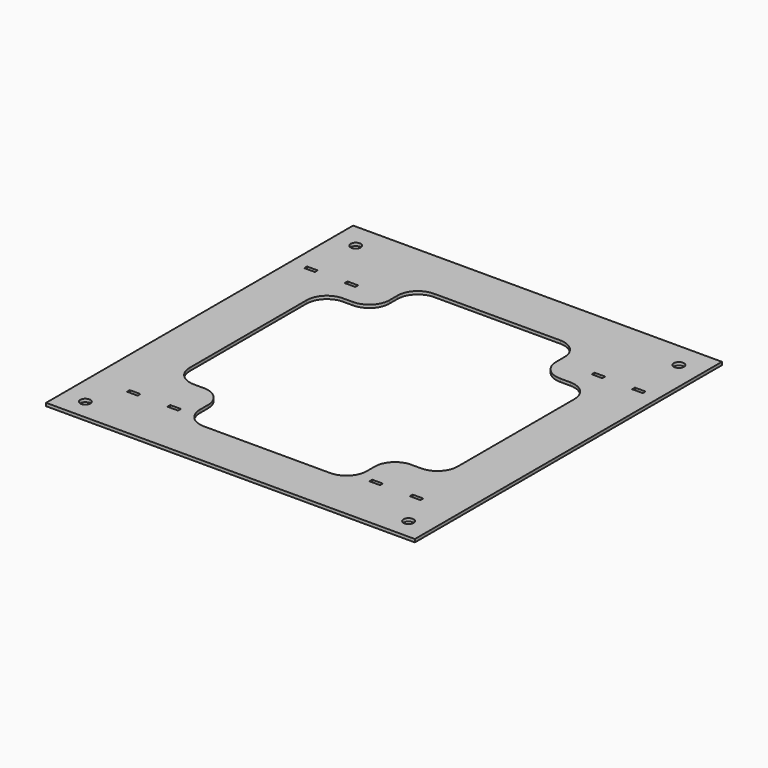
from build123d import *

# Parameters (mm, degrees)
SKETCH_W          = 365.0996
SKETCH_H          = 379.984
SKETCH_R          = 5
SKETCH_W_2        = 10.5
SKETCH_H_2        = 3.5
PAD_DEPTH         = 3
POCKET_DEPTH      = 0.001
POCKET_DEPTH_BACK = -3.001


with BuildPart() as part:
    # Sketch → Pad (new body)
    with BuildSketch(Plane.XY):
        with Locations((0, 2.2987)):
            Rectangle(SKETCH_W, SKETCH_H)
        with Locations((-159.9946, 167.2971)):
            Circle(SKETCH_R, mode=Mode.SUBTRACT)
        with Locations((159.9946, 167.2971)):
            Circle(SKETCH_R, mode=Mode.SUBTRACT)
        with Locations((159.9946, -167.2971)):
            Circle(SKETCH_R, mode=Mode.SUBTRACT)
        with Locations((-159.9946, -167.2971)):
            Circle(SKETCH_R, mode=Mode.SUBTRACT)
        with Locations((-140, -132.419)):
            Rectangle(SKETCH_W_2, SKETCH_H_2, mode=Mode.SUBTRACT)
        with Locations((-100, -132.419)):
            Rectangle(SKETCH_W_2, SKETCH_H_2, mode=Mode.SUBTRACT)
        with Locations((100, -132.419)):
            Rectangle(SKETCH_W_2, SKETCH_H_2, mode=Mode.SUBTRACT)
        with Locations((140, -132.419)):
            Rectangle(SKETCH_W_2, SKETCH_H_2, mode=Mode.SUBTRACT)
        with Locations((-162.2998, 114.7971)):
            Rectangle(SKETCH_W_2, SKETCH_H_2, mode=Mode.SUBTRACT)
        with Locations((-122.2998, 114.7971)):
            Rectangle(SKETCH_W_2, SKETCH_H_2, mode=Mode.SUBTRACT)
        with Locations((122.2998, 114.7971)):
            Rectangle(SKETCH_W_2, SKETCH_H_2, mode=Mode.SUBTRACT)
        with Locations((162.2998, 114.7971)):
            Rectangle(SKETCH_W_2, SKETCH_H_2, mode=Mode.SUBTRACT)
    extrude(amount=PAD_DEPTH)

    # Sketch001 → Pocket (cut, two sides)
    with BuildSketch(Plane.XY) as pocket_sk:
        with BuildLine():
            Line((0, 142.2907), (-62.5498, 142.2907))
            ThreePointArc((-62.5498, 142.2907), (-76.691936, 136.432836), (-82.5498, 122.2907))
            Line((-82.5498, 122.2907), (-82.5498, 112.2907))
            ThreePointArc((-102.5498, 92.2907), (-88.407664, 98.148564), (-82.5498, 112.2907))
            Line((-112.5498, 92.2907), (-102.5498, 92.2907))
            ThreePointArc((-112.5498, 92.2907), (-126.691936, 86.432836), (-132.5498, 72.2907))
            Line((-132.5498, 0), (-132.5498, 72.2907))
            Line((-132.5498, 0), (-132.5498, -72.2907))
            ThreePointArc((-132.5498, -72.2907), (-126.691936, -86.432836), (-112.5498, -92.2907))
            Line((-112.5498, -92.2907), (-102.5498, -92.2907))
            ThreePointArc((-82.5498, -112.2907), (-88.407664, -98.148564), (-102.5498, -92.2907))
            Line((-82.5498, -122.2907), (-82.5498, -112.2907))
            ThreePointArc((-82.5498, -122.2907), (-76.691936, -136.432836), (-62.5498, -142.2907))
            Line((0, -142.2907), (-62.5498, -142.2907))
            Line((0, -142.2907), (62.5498, -142.2907))
            ThreePointArc((62.5498, -142.2907), (76.691935, -136.432835), (82.549799, -122.2907))
            Line((82.549799, -122.2907), (82.549799, -112.2907))
            ThreePointArc((102.5498, -92.290701), (88.407664, -98.148564), (82.549799, -112.2907))
            Line((112.5498, -92.290701), (102.5498, -92.290701))
            ThreePointArc((112.5498, -92.290701), (126.691936, -86.432836), (132.5498, -72.2907))
            Line((132.5498, 0), (132.5498, -72.2907))
            Line((132.5498, 0), (132.5498, 72.2907))
            ThreePointArc((132.5498, 72.2907), (126.691936, 86.432836), (112.5498, 92.290701))
            Line((112.5498, 92.290701), (102.5498, 92.290701))
            ThreePointArc((82.549799, 112.2907), (88.407664, 98.148564), (102.5498, 92.290701))
            Line((82.549799, 122.2907), (82.549799, 112.2907))
            ThreePointArc((82.549799, 122.2907), (76.691935, 136.432835), (62.5498, 142.2907))
            Line((0, 142.2907), (62.5498, 142.2907))
        make_face()
    extrude(amount=-POCKET_DEPTH, mode=Mode.SUBTRACT)
    extrude(pocket_sk.sketch, amount=-POCKET_DEPTH_BACK, mode=Mode.SUBTRACT)


solid = part.part
